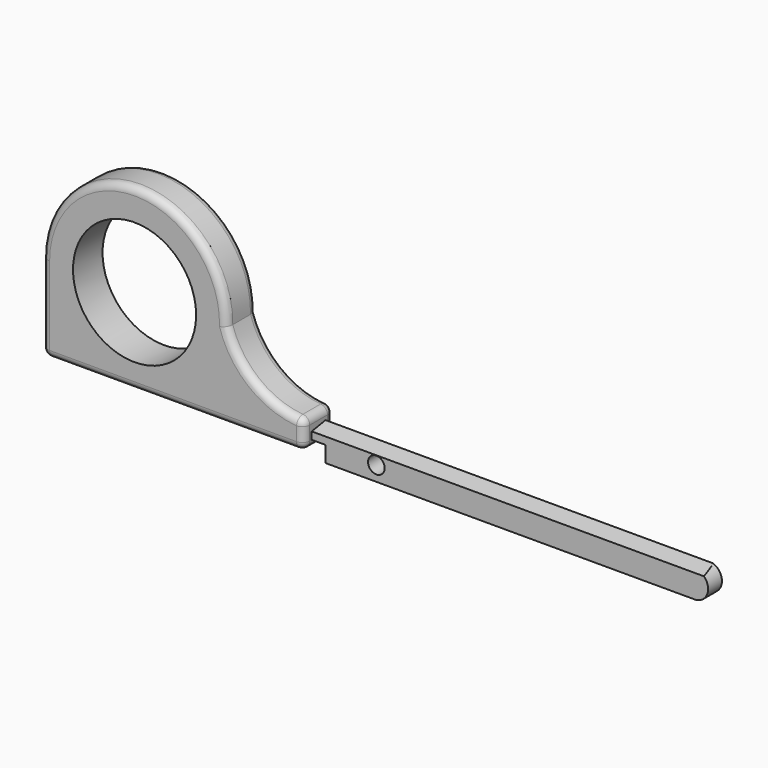
from build123d import *

# Parameters (mm, degrees)
F0_R     = 1.7145
F1_DEPTH = 1.778
F0_R_2   = 12.7
F2_DEPTH = 3.81
F3_R     = 1.524
F5_DEPTH = 81.789
F6_DEPTH = 81.789


with BuildPart() as f1:
    # F0 (on Front) → F1 (new body, symmetric)
    with BuildSketch(Plane.XZ):
        with BuildLine():
            Line((18.6069666262, -2.2111574336), (18.6069666262, -4.4971574336))
            Line((18.6069666262, -4.4971574336), (21.4009666262, -4.4971574336))
            Line((21.4009666262, -4.4971574336), (21.4009666262, -7.7991574336))
            Line((21.4009666262, -7.7991574336), (97.6009666262, -7.7991574336))
            ThreePointArc((97.6009666262, -7.7991574336), (100.3949666262, -5.0051574336), (97.6009666262, -2.2111574336))
            Line((97.6009666262, -2.2111574336), (18.6069666262, -2.2111574336))
        make_face()
        with Locations((31.9419666262, -4.7511574336)):
            Circle(F0_R, mode=Mode.SUBTRACT)
    extrude(amount=F1_DEPTH, both=True)

    # F0 (on Front) → F2 (join, symmetric)
    with BuildSketch(Plane.XZ):
        with BuildLine():
            ThreePointArc((-35.3680333738, -4.4971574336), (-34.9216641084, -5.5747881681), (-33.8440333738, -6.0211574336))
            Line((-33.8440333738, -6.0211574336), (17.0829666262, -6.0211574336))
            ThreePointArc((17.0829666262, -6.0211574336), (18.1605973607, -5.5747881681), (18.6069666262, -4.4971574336))
            Line((18.6069666262, -4.4971574336), (18.6069666262, -2.2111574336))
            Line((18.6069666262, -2.2111574336), (18.6069666262, -1.6228641659))
            ThreePointArc((18.6069666262, -1.6228641659), (18.2019597184, -0.5882480731), (17.2022022436, -0.1035357395))
            ThreePointArc((17.2022022436, -0.1035357395), (8.1933226976, 3.4532292373), (2.7294715366, 11.4505299235))
            ThreePointArc((2.7294715366, 11.4505299235), (-16.1638720044, 30.8082187838), (-35.3680333738, 11.7588425664))
            Line((-35.3680333738, 11.7588425664), (-35.3680333738, -4.4971574336))
        make_face()
        with Locations((-16.3180333738, 11.7588425664)):
            Circle(F0_R_2, mode=Mode.SUBTRACT)
    extrude(amount=F2_DEPTH, both=True)

    # F3
    f3_edges = [f1.edges().sort_by_distance(p)[0] for p in [
        (-16.163872, -3.81, 30.808219),
        (-16.163872, 3.81, 30.808219),
    ]]
    fillet(f3_edges, radius=F3_R)

    # F4 (on face) → F5 (cut, through all)
    with BuildSketch(Plane.YZ.offset(18.6069666262)):
        Polygon((-2.286, -2.2111574336), (-2.286, -3.0600107998), (2.6955511421, -2.2111574336), align=None)
    extrude(amount=F5_DEPTH, mode=Mode.SUBTRACT)

    # F4 (on face) → F6 (cut, through all)
    with BuildSketch(Plane.YZ.offset(18.6069666262)):
        Polygon((-2.286, -2.2111574336), (-2.286, -3.0600107998), (2.6955511421, -2.2111574336), align=None)
    extrude(amount=F6_DEPTH, mode=Mode.SUBTRACT)


solid = f1.part
